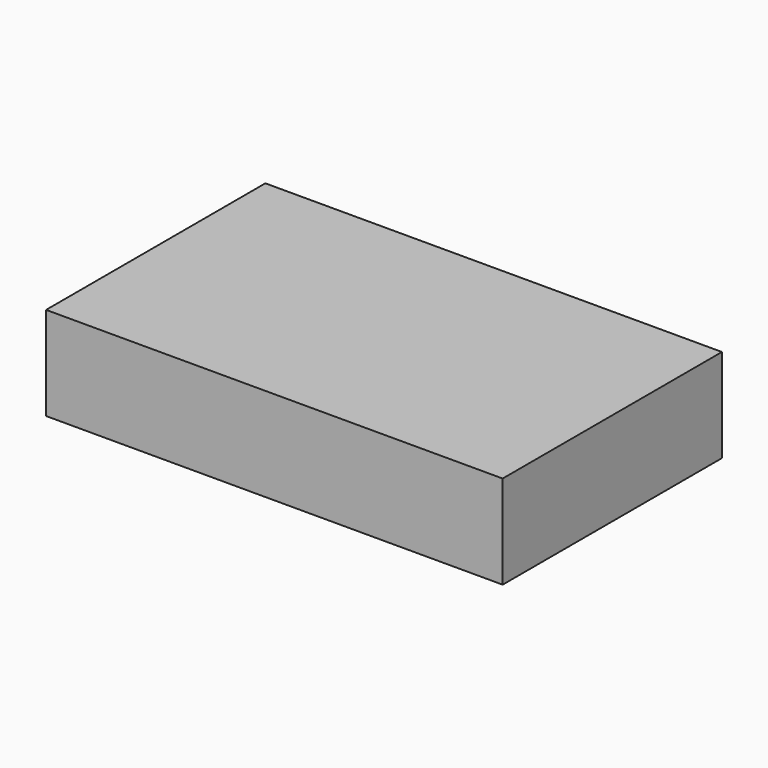
from build123d import *

# Parameters (mm, degrees)
F0_W     = 122.116942
F0_H     = 73.306456
F1_DEPTH = 25


with BuildPart() as f1:
    # F0 (on Top) → F1 (new body)
    with BuildSketch(Plane.XY):
        with Locations((0.725808, 0.272177)):
            Rectangle(F0_W, F0_H)
    extrude(amount=F1_DEPTH)


with BuildPart() as f1_1:
    # F2: moved
    add(f1.part.moved(Location((0, 0, -10))))


solid = f1_1.part
